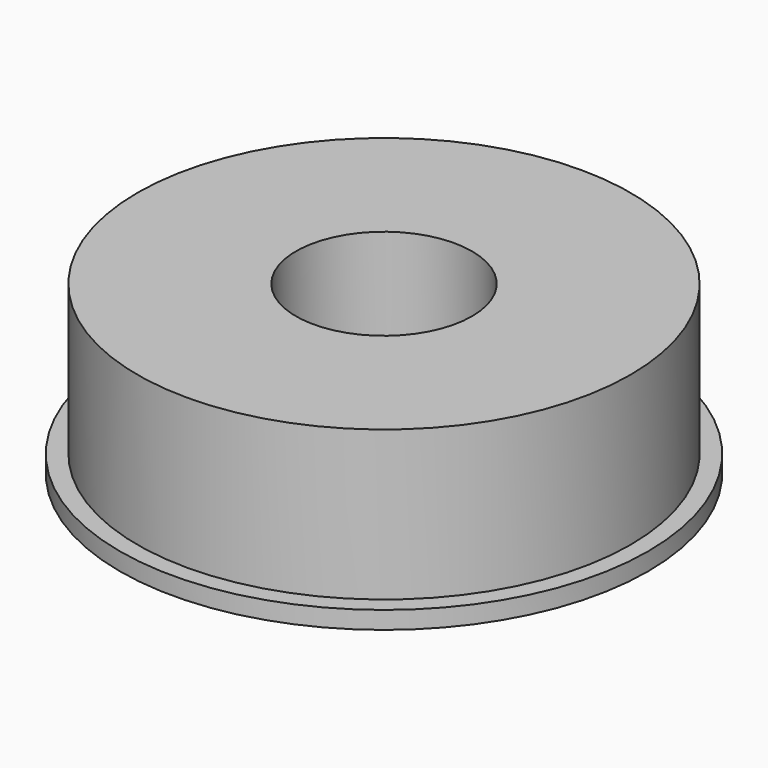
from build123d import *

# Parameters (mm, degrees)
F0_R     = 15
F1_DEPTH = 1
F2_R     = 14
F3_DEPTH = 8.5
F4_R     = 5
F5_DEPTH = 9.5


with BuildPart() as f1:
    # F0 (on Top) → F1 (new body)
    with BuildSketch(Plane.XY):
        Circle(F0_R)
    extrude(amount=F1_DEPTH)

    # F2 (on face) → F3 (join)
    with BuildSketch(Plane.XY.offset(1)):
        Circle(F2_R)
    extrude(amount=F3_DEPTH)

    # F4 (on face) → F5 (cut, through all)
    with BuildSketch(Plane.XY.offset(9.5)):
        Circle(F4_R)
    extrude(amount=-F5_DEPTH, mode=Mode.SUBTRACT)


solid = f1.part
